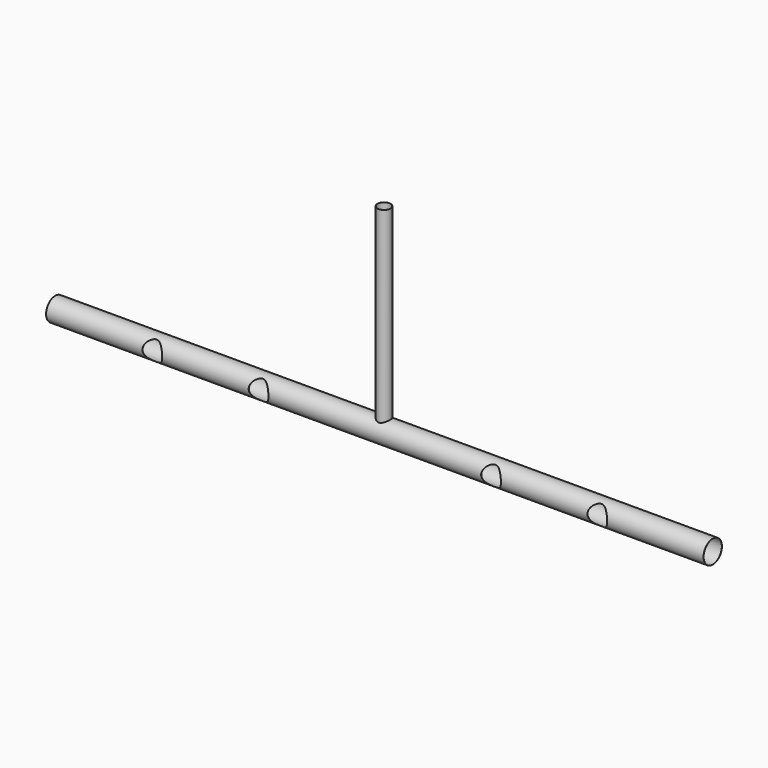
from build123d import *

# Parameters (mm, degrees)
F2_R     = 175
F2_R_2   = 173
F3_DEPTH = 5000
F0_R     = 98
F5_D     = 300
F5_DEPTH = 175.0010001
F0_R_2   = 100


with BuildPart() as f3:
    # F2 (on Right) → F3 (new body, symmetric)
    with BuildSketch(Plane.YZ):
        with Locations((0, -3000)):
            Circle(F2_R)
        with Locations((0, -3000)):
            Circle(F2_R_2, mode=Mode.SUBTRACT)
    extrude(amount=F3_DEPTH, both=True)

    # F4: sweep along a path in F1
    with BuildLine(Plane.XZ) as f4_path:
        Line((0, 0), (0, -3000))
    # F0 (on Top) → F4 (sweep, cut)
    with BuildSketch(Plane.XY):
        Circle(F0_R)
    sweep(path=f4_path.line, mode=Mode.SUBTRACT)

    # F5 (through all, one way)
    with BuildSketch(Plane(origin=(0, 0, 0), x_dir=(1, 0, 0), z_dir=(0, 1, 0))):
        with Locations((-3384, 3000), (-1768, 3000), (1768, 3000), (3384, 3000)):
            Circle(F5_D / 2)
    extrude(amount=-F5_DEPTH, mode=Mode.SUBTRACT)

    # F0 (on Top) → F6 (join, up to the next surface of F3)
    with BuildSketch(Plane.XY):
        Circle(F0_R_2)
        Circle(F0_R, mode=Mode.SUBTRACT)
    extrude(until=Until.NEXT, dir=(0, 0, -1))


solid = f3.part
